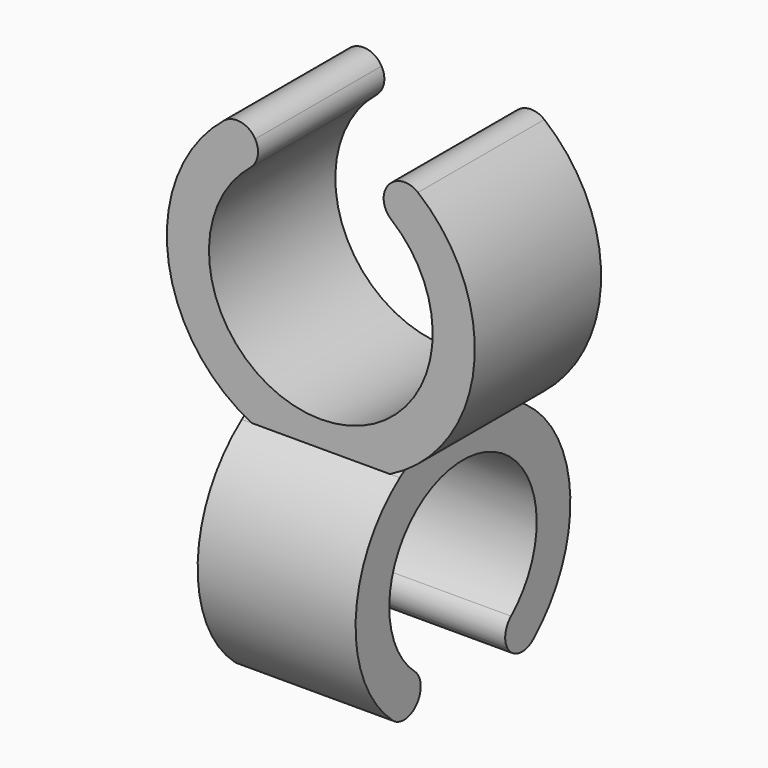
from build123d import *

# Parameters (mm, degrees)
F1_DEPTH = 19.05
F3_DEPTH = 9.525
F4_DEPTH = 9.525


with BuildPart() as f1:
    # F0 (on Front) → F1 (new body)
    with BuildSketch(Plane.XZ):
        with BuildLine():
            ThreePointArc((8.512915, 10.469554), (0, -13.49375), (-8.512915, 10.469554))
            ThreePointArc((-8.512915, 10.469554), (-7.617416, 11.979921), (-7.915642, 13.710294))
            ThreePointArc((-7.915642, 13.710294), (-9.654974, 14.938224), (-11.717777, 14.411033))
            ThreePointArc((-11.717777, 14.411033), (0, -18.57375), (11.717777, 14.411033))
            ThreePointArc((11.717777, 14.411033), (9.654974, 14.938224), (7.915642, 13.710294))
            ThreePointArc((7.915642, 13.710294), (7.617416, 11.979921), (8.512915, 10.469554))
        make_face()
    extrude(amount=F1_DEPTH)

    # F2 (on Right) → F3 (join)
    with BuildSketch(Plane.YZ):
        with BuildLine():
            ThreePointArc((-16.7747, -38.108215), (-9.525, -18.57375), (-2.2753, -38.108215))
            ThreePointArc((-2.2753, -38.108215), (-3.122367, -39.607942), (-2.81793, -41.303236))
            ThreePointArc((-2.81793, -41.303236), (-1.043519, -42.537378), (1.038849, -41.958257))
            ThreePointArc((1.038849, -41.958257), (6.653938, -29.02367), (0, -16.59154))
            ThreePointArc((0, -16.59154), (-9.525, -13.49375), (-19.05, -16.59154))
            ThreePointArc((-19.05, -16.59154), (-25.703938, -29.02367), (-20.088849, -41.958257))
            ThreePointArc((-20.088849, -41.958257), (-18.006481, -42.537378), (-16.23207, -41.303236))
            ThreePointArc((-16.23207, -41.303236), (-15.927633, -39.607942), (-16.7747, -38.108215))
        make_face()
    extrude(amount=F3_DEPTH)

    # F2 (on Right) → F4 (join)
    with BuildSketch(Plane.YZ):
        with BuildLine():
            ThreePointArc((-16.7747, -38.108215), (-9.525, -18.57375), (-2.2753, -38.108215))
            ThreePointArc((-2.2753, -38.108215), (-3.122367, -39.607942), (-2.81793, -41.303236))
            ThreePointArc((-2.81793, -41.303236), (-1.043519, -42.537378), (1.038849, -41.958257))
            ThreePointArc((1.038849, -41.958257), (6.653938, -29.02367), (0, -16.59154))
            ThreePointArc((0, -16.59154), (-9.525, -13.49375), (-19.05, -16.59154))
            ThreePointArc((-19.05, -16.59154), (-25.703938, -29.02367), (-20.088849, -41.958257))
            ThreePointArc((-20.088849, -41.958257), (-18.006481, -42.537378), (-16.23207, -41.303236))
            ThreePointArc((-16.23207, -41.303236), (-15.927633, -39.607942), (-16.7747, -38.108215))
        make_face()
    extrude(amount=-F4_DEPTH)


solid = f1.part
